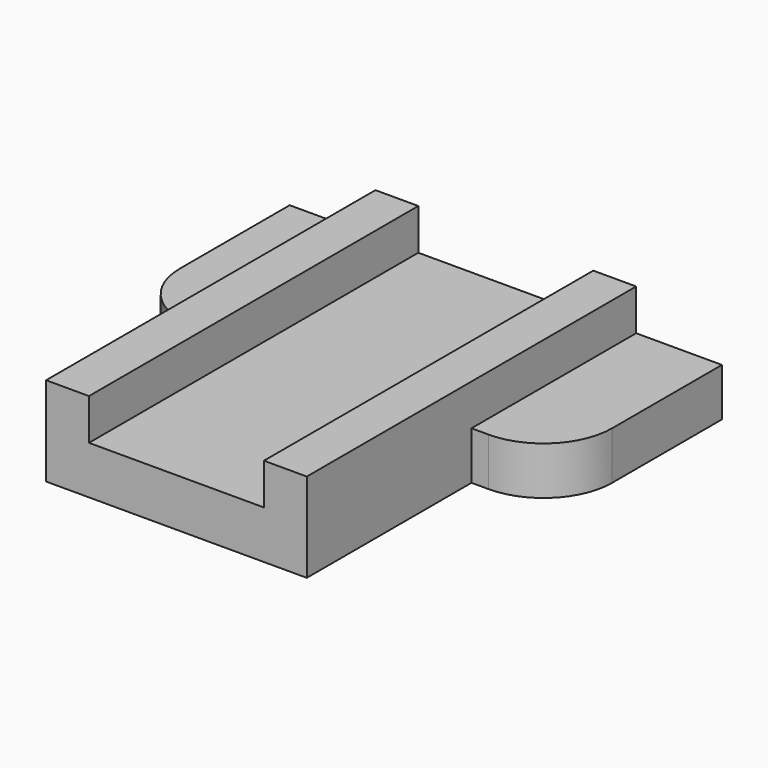
from build123d import *

# Parameters (mm, degrees)
F0_W     = 3.175
F0_H     = 3.048
F1_DEPTH = 30.48
F0_W_2   = 6.35
F0_H_2   = 3.556
F2_DEPTH = 15.24
F3_DEPTH = 15.24
F4_R     = 5.08


with BuildPart() as f1:
    # F0 (on Front) → F1 (new body)
    with BuildSketch(Plane.XZ):
        Polygon((9.652, -1.778), (9.652, 1.778), (6.477, 1.778), (-6.477, 1.778), (-9.652, 1.778), (-9.652, -1.778), align=None)
        with Locations((8.0645, 3.302)):
            Rectangle(F0_W, F0_H)
        with Locations((-8.0645, 3.302)):
            Rectangle(F0_W, F0_H)
    extrude(amount=F1_DEPTH)

    # F0 (on Front) → F2 (join)
    with BuildSketch(Plane.XZ):
        with Locations((12.827, 0)):
            Rectangle(F0_W_2, F0_H_2)
    extrude(amount=F2_DEPTH)

    # F0 (on Front) → F3 (join)
    with BuildSketch(Plane.XZ):
        with Locations((-12.827, 0)):
            Rectangle(F0_W_2, F0_H_2)
    extrude(amount=F3_DEPTH)

    # F4
    f4_edges = [f1.edges().sort_by_distance(p)[0] for p in [
        (-16.002, -15.24, 0),
        (16.002, -15.24, 0),
    ]]
    fillet(f4_edges, radius=F4_R)


solid = f1.part
